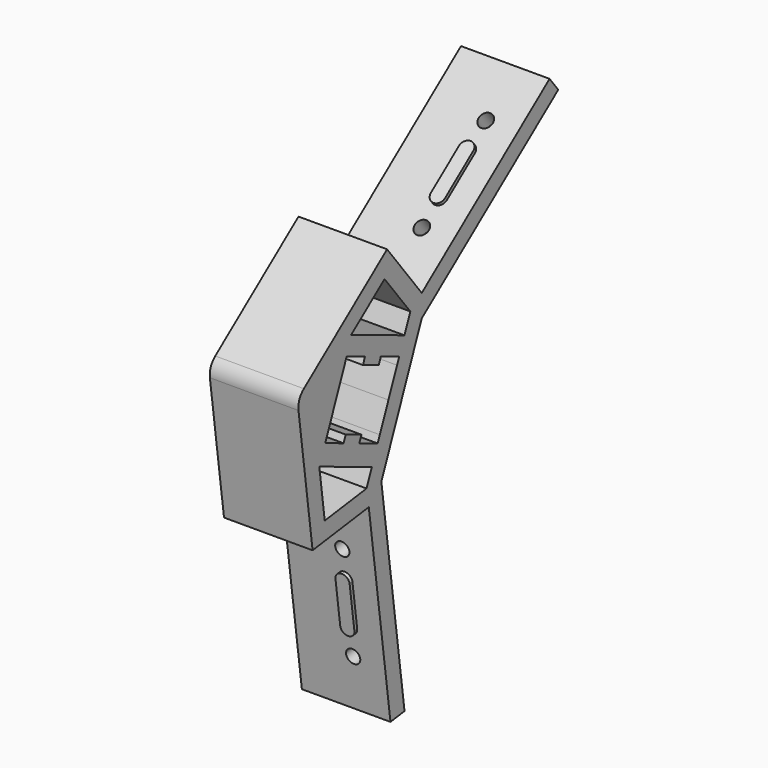
from build123d import *

# Parameters (mm, degrees)
F1_DEPTH = 25
F2_DEPTH = 5
F3_R     = 5
F5_DEPTH = 1
F6_DEPTH = 5
F8_DEPTH = 1
F9_DEPTH = 5


with BuildPart() as f1:
    # F0 (on Right) → F1 (new body)
    with BuildSketch(Plane.YZ):
        Polygon((-1.9545168432, 38.6489601963), (-33.5964987424, 14.1788767986), (-28.2257758369, -25.4589250511), (-8.406874912, -22.7735635983), (-0.7535947717, -79.2574312341), (4.2011304595, -78.5860908709), (-3.9713255886, -18.2705245759), (3.1545996335, -0.8816359607), (10.2805248557, 16.5072526545), (58.4291094867, 53.742590351), (55.370349062, 57.6978380884), (10.2805248557, 22.8279692467), align=None)
        Polygon((-25.8654488138, -5.6400241263), (-7.3142972833, -13.2422419285), (-9.1963342424, -17.8348428934), (-23.9423909688, -19.8328594567), align=None, mode=Mode.SUBTRACT)
        Polygon((1.5615552233, 8.4168698067), (-1.4719884671, 1.0143288458), (-4.5055321574, -6.3882121151), (-5.26391808, -8.2388473554), (-11.7411414209, -5.5844966263), (-17.2930471416, -3.3093388585), (-23.7702704824, -0.6549881294), (-23.0118845598, 1.1956471108), (-16.944797179, 16.0007290327), (-16.1864112564, 17.851364273), (-9.7091879156, 15.1970135439), (-4.1572821949, 12.9218557761), (2.3199411459, 10.267505047), align=None, mode=Mode.SUBTRACT)
        Polygon((-14.6534166938, 22.50764705), (-2.8510041559, 31.6349520341), (6.2523573083, 19.863500585), (4.1741345282, 14.7921613112), align=None, mode=Mode.SUBTRACT)
        Polygon((-11.7411414209, -5.5844966263), (-10.9827554983, -3.7338613861), (-16.534661219, -1.4587036183), (-17.2930471416, -3.3093388585), align=None)
        Polygon((-10.4675738382, 13.3463783036), (-4.9156681175, 11.0712205358), (-4.1572821949, 12.9218557761), (-9.7091879156, 15.1970135439), align=None)
    extrude(amount=F1_DEPTH)

    # F0 (on Right) → F2 (join)
    with BuildSketch(Plane.YZ):
        Polygon((-5.26391808, -8.2388473554), (-4.5055321574, -6.3882121151), (-10.9827554983, -3.7338613861), (-11.7411414209, -5.5844966263), align=None)
        Polygon((-17.2930471416, -3.3093388585), (-16.534661219, -1.4587036183), (-23.0118845598, 1.1956471108), (-23.7702704824, -0.6549881294), align=None)
        Polygon((-16.944797179, 16.0007290327), (-10.4675738382, 13.3463783036), (-9.7091879156, 15.1970135439), (-16.1864112564, 17.851364273), align=None)
        Polygon((-4.9156681175, 11.0712205358), (1.5615552233, 8.4168698067), (2.3199411459, 10.267505047), (-4.1572821949, 12.9218557761), align=None)
    extrude(amount=F2_DEPTH)

    # F3
    f3_edges = [f1.edges().sort_by_distance(p)[0] for p in [
        (12.5, -33.596499, 14.178877),
    ]]
    fillet(f3_edges, radius=F3_R)

    # F4 (on face) → F5 (join)
    with BuildSketch(Plane(origin=(0, -7.1996627103, 9.3098006026), x_dir=(1, 0, 0), z_dir=(0, -0.6117520849, 0.7910495475))):
        with BuildLine():
            ThreePointArc((14, 56.8474623166), (16, 54.8474623166), (18, 56.8474623166))
            ThreePointArc((18, 56.8474623166), (16, 58.8474623166), (14, 56.8474623166))
        make_face()
        with BuildLine():
            ThreePointArc((14, 44.3474623166), (16, 42.3474623166), (18, 44.3474623166))
            ThreePointArc((18, 44.3474623166), (16, 46.3474623166), (14, 44.3474623166))
        make_face()
        with BuildLine():
            Line((18, 44.3474623166), (18, 56.8474623166))
            ThreePointArc((18, 56.8474623166), (16, 54.8474623166), (14, 56.8474623166))
            Line((14, 56.8474623166), (14, 44.3474623166))
            ThreePointArc((14, 44.3474623166), (16, 46.3474623166), (18, 44.3474623166))
        make_face()
    extrude(amount=F5_DEPTH)

    # F4 (on face) → F6 (cut)
    with BuildSketch(Plane(origin=(0, -7.1996627103, 9.3098006026), x_dir=(1, 0, 0), z_dir=(0, -0.6117520849, 0.7910495475))):
        with BuildLine():
            ThreePointArc((14, 64.8474623166), (16, 62.8474623166), (18, 64.8474623166))
            ThreePointArc((18, 64.8474623166), (16, 66.8474623166), (14, 64.8474623166))
        make_face()
        with BuildLine():
            ThreePointArc((14, 36.3474623166), (16, 34.3474623166), (18, 36.3474623166))
            ThreePointArc((18, 36.3474623166), (16, 38.3474623166), (14, 36.3474623166))
        make_face()
    extrude(amount=-F6_DEPTH, mode=Mode.SUBTRACT)

    # F7 (on face) → F8 (join)
    with BuildSketch(Plane(origin=(0, -11.2853910764, -1.5291137632), x_dir=(1, 0, 0), z_dir=(0, -0.9909450462, -0.1342680726))):
        with BuildLine():
            ThreePointArc((14, -43.6885751417), (16, -45.6885751417), (18, -43.6885751417))
            ThreePointArc((18, -43.6885751417), (16, -41.6885751417), (14, -43.6885751417))
        make_face()
        with BuildLine():
            Line((18, -56.1885751417), (18, -43.6885751417))
            ThreePointArc((18, -43.6885751417), (16, -45.6885751417), (14, -43.6885751417))
            Line((14, -43.6885751417), (14, -56.1885751417))
            ThreePointArc((14, -56.1885751417), (16, -54.1885751417), (18, -56.1885751417))
        make_face()
        with BuildLine():
            ThreePointArc((14, -56.1885751417), (16, -58.1885751417), (18, -56.1885751417))
            ThreePointArc((18, -56.1885751417), (16, -54.1885751417), (14, -56.1885751417))
        make_face()
    extrude(amount=F8_DEPTH)

    # F7 (on face) → F9 (cut)
    with BuildSketch(Plane(origin=(0, -11.2853910764, -1.5291137632), x_dir=(1, 0, 0), z_dir=(0, -0.9909450462, -0.1342680726))):
        with BuildLine():
            ThreePointArc((14, -35.6885751417), (16, -37.6885751417), (18, -35.6885751417))
            ThreePointArc((18, -35.6885751417), (16, -33.6885751417), (14, -35.6885751417))
        make_face()
        with BuildLine():
            ThreePointArc((14, -64.1885751417), (16, -66.1885751417), (18, -64.1885751417))
            ThreePointArc((18, -64.1885751417), (16, -62.1885751417), (14, -64.1885751417))
        make_face()
    extrude(amount=-F9_DEPTH, mode=Mode.SUBTRACT)


solid = f1.part
